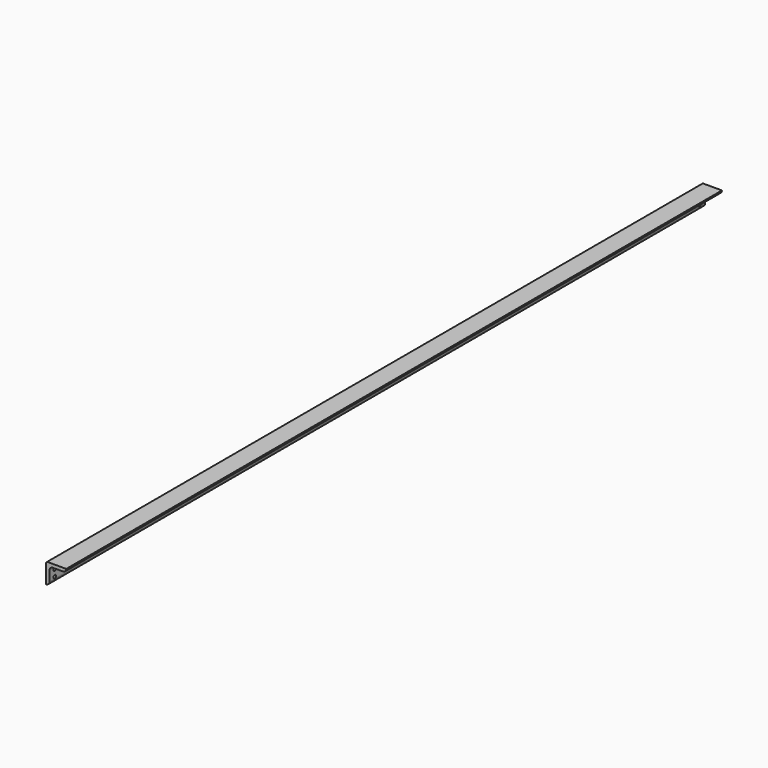
from build123d import *

# Parameters (mm, degrees)
F1_DEPTH      = 1524
F1_DEPTH_BACK = 25.4
F2_R          = 3.175
F3_DEPTH      = 38.1


with BuildPart() as f1:
    # F0 (on Front) → F1 (new body, two sides)
    with BuildSketch(Plane.XZ) as f1_sk:
        with BuildLine():
            Line((38.1, 38.1), (3.175, 38.1))
            ThreePointArc((3.175, 38.1), (0.929936, 37.170064), (0, 34.925))
            Line((0, 34.925), (0, 0))
            ThreePointArc((0, 0), (4.490128, 1.859872), (6.35, 6.35))
            Line((6.35, 6.35), (6.35, 25.4))
            ThreePointArc((6.35, 25.4), (8.209872, 29.890128), (12.7, 31.75))
            Line((12.7, 31.75), (31.75, 31.75))
            ThreePointArc((31.75, 31.75), (36.240128, 33.609872), (38.1, 38.1))
        make_face()
    extrude(amount=F1_DEPTH)
    extrude(f1_sk.sketch, amount=-F1_DEPTH_BACK)

    # F2 (on Right) → F3 (cut)
    with BuildSketch(Plane.YZ):
        with Locations((12.7, 9.525)):
            Circle(F2_R)
        with Locations((12.7, 22.225)):
            Circle(F2_R)
        with Locations((-1511.3, 9.525)):
            Circle(F2_R)
        with Locations((-1511.3, 22.225)):
            Circle(F2_R)
    extrude(amount=F3_DEPTH, mode=Mode.SUBTRACT)


solid = f1.part
